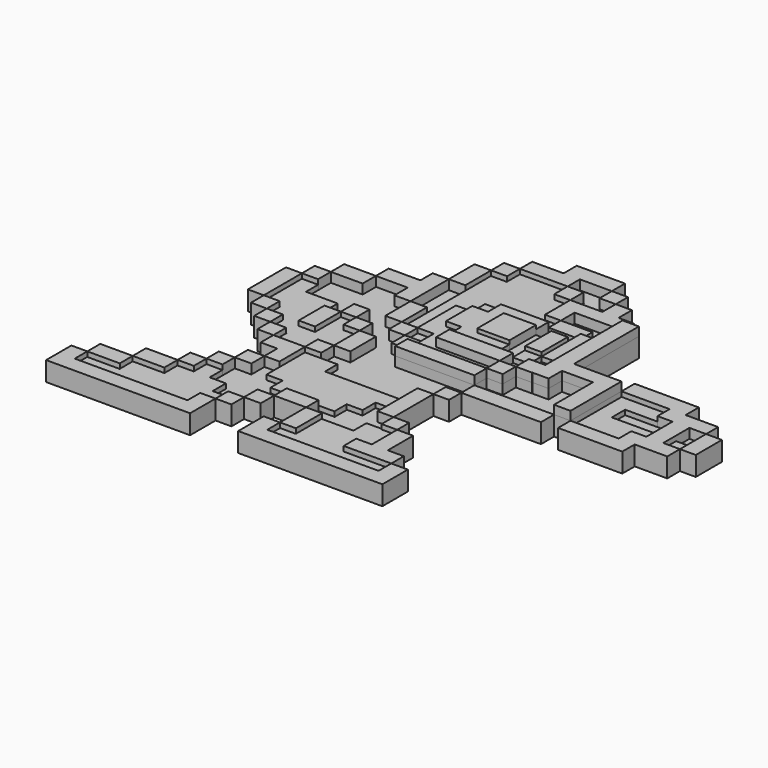
from build123d import *

# Parameters (mm, degrees)
F0_W      = 20.900006406
F0_H      = 4.2923069559
F1_DEPTH  = 5.08
F0_W_2    = 8.3327814937
F0_H_2    = 4.3587516993
F0_W_3    = 4.2140427977
F0_H_3    = 4.1645690799
F0_W_4    = 8.3529315889
F0_H_4    = 4.0272120386
F0_W_5    = 4.4268853962
F0_H_5    = 8.5811112076
F0_W_6    = 4.1924705729
F0_H_6    = 8.3178449422
F0_W_7    = 4.0919128805
F0_H_7    = 4.1151866317
F0_W_8    = 4.2062476277
F0_W_9    = 4.3465588242
F0_H_8    = 8.4780417383
F0_W_10   = 4.3311528862
F0_H_9    = 12.7643435262
F0_W_11   = 4.172725603
F0_H_10   = 4.2218714952
F0_W_12   = 8.2945758477
F0_W_13   = 4.2809359729
F0_H_11   = 4.1758846492
F0_W_14   = 4.1783265769
F0_H_12   = 4.1205789894
F0_W_15   = 4.2810421437
F0_H_13   = 8.4166134475
F0_W_16   = 20.8005825989
F0_H_14   = 4.0355686215
F0_W_17   = 4.3553877622
F0_H_15   = 4.1632745415
F0_W_18   = 4.2075817473
F0_H_16   = 4.3926127255
F0_W_19   = 4.2893327773
F0_H_17   = 8.4763255436
F0_W_20   = 8.4553544875
F0_H_18   = 8.6766984314
F0_W_21   = 4.2940806597
F0_H_19   = 8.5881613195
F0_W_22   = 4.2437100783
F0_W_23   = 4.169259686
F0_H_20   = 4.510294646
F0_W_24   = 16.7077530641
F0_H_21   = 4.3921931647
F0_W_25   = 4.1942112148
F0_H_22   = 4.1577133816
F0_H_23   = 4.2809359729
F0_W_26   = 4.2437110096
F0_H_24   = 4.0203556418
F0_W_27   = 4.1589438915
F0_H_25   = 4.0269978344
F0_W_28   = 4.1692606173
F0_H_26   = 13.0671747029
F0_H_27   = 3.9459075779
F0_W_29   = 4.1936609196
F0_H_28   = 8.5536167026
F0_W_30   = 4.3142456561
F0_H_29   = 8.2726264372
F0_W_31   = 4.1898488998
F0_H_30   = 12.5111724483
F0_W_32   = 8.3659859374
F0_H_31   = 4.1002966464
F0_W_33   = 8.5217542946
F0_H_32   = 4.2498111725
F0_W_34   = 8.3016045392
F0_H_33   = 4.3591111898
F0_W_35   = 4.243709147
F0_H_34   = 4.1643381119
F0_W_36   = 4.2115878314
F0_H_35   = 4.2378730141
F0_W_37   = 4.1781994514
F0_H_36   = 4.378170881
F0_W_38   = 4.2075226083
F0_H_37   = 4.2825799319
F0_W_39   = 4.2488034815
F0_H_38   = 4.2021656409
F0_H_39   = 4.1581873083
F0_W_40   = 4.013851285
F0_H_40   = 4.3770181946
F0_W_41   = 4.1692592204
F0_H_41   = 4.2064852314
F0_W_42   = 4.2149834335
F0_H_42   = 4.2121158913
F0_W_43   = 4.3777292594
F0_H_43   = 4.4039189816
F0_W_44   = 4.1690245271
F0_H_44   = 4.149697721
F0_W_45   = 4.2064860463
F0_H_45   = 4.0203593671
F0_W_46   = 4.2313970625
F0_H_46   = 4.1999788955
F2_W      = 8.3400309086
F2_H      = 4.2342506349
F3_DEPTH  = 3.81
F2_W_2    = 4.1319718584
F2_H_2    = 3.9547178894
F2_W_3    = 4.1876286268
F2_W_4    = 4.2704697698
F2_H_3    = 8.4137432277
F2_W_5    = 4.1673658416
F2_H_4    = 4.3562869541
F2_W_6    = 4.3553896248
F2_H_5    = 4.181571072
F2_W_7    = 4.1320323944
F2_H_6    = 4.1878721677
F2_W_8    = 8.2915648818
F2_H_7    = 4.2985947803
F2_W_9    = 4.0063336492
F2_H_8    = 4.2055423837
F2_W_10   = 4.2401889805
F2_H_9    = 4.2886454612
F2_W_11   = 8.5089355707
F2_H_10   = 4.0609911084
F2_W_12   = 4.1747577488
F2_H_11   = 4.1917189956
F2_W_13   = 4.0501449257
F2_H_12   = 4.0871463716
F2_W_14   = 4.1151610203
F2_H_13   = 4.2416639626
F5_W      = 4.1979551315
F5_H      = 12.864341028
F7_DEPTH  = 6.35
F5_W_2    = 4.3823933229
F5_H_2    = 4.0067601949
F4_W      = 4.1945781559
F4_H      = 4.0380638093
F8_DEPTH  = 5.08
F4_W_2    = 4.2571825907
F4_H_2    = 4.3197884224
F4_W_3    = 4.1380170733
F4_H_3    = 12.6139037311
F4_W_4    = 4.1493853787
F4_H_4    = 4.2100641876
F6_W      = 12.3646110296
F6_H      = 4.4449996203
F9_DEPTH  = 2.54
F6_W_2    = 4.3510869145
F6_H_2    = 4.3823942542
F6_W_3    = 8.2640685141
F6_H_3    = 4.4298376888
F6_W_4    = 4.3561588973
F6_H_4    = 12.6044657081
F6_W_5    = 4.2518645059
F6_H_5    = 4.2884852737
F6_W_6    = 4.257183522
F6_H_6    = 8.1847608089
F6_W_7    = 4.0341764688
F6_H_7    = 4.2997151613
F6_W_8    = 4.3434323743
F6_H_8    = 4.2064841837
F6_W_9    = 4.2166868225
F6_H_9    = 4.065064888
F6_W_10   = 8.3789918572
F6_H_10   = 4.3366439641
F6_W_11   = 4.2404327542
F6_H_11   = 4.3948800303
F6_W_12   = 4.237576155
F6_H_12   = 4.1945776902
F6_W_13   = 4.1850935668
F6_H_13   = 4.1006691754
F10_DEPTH = 2.286


with BuildPart() as f1:
    # F0 (on Top) → F1 (new body)
    with BuildSketch(Plane.XY):
        with Locations((25.3343083896, -5.2376810927)):
            Rectangle(F0_W, F0_H)
    extrude(amount=F1_DEPTH)


with BuildPart() as f1b:
    # F0 (on Top) → F1, piece 2 (new body)
    with BuildSketch(Plane.XY):
        with Locations((-35.3536754847, 20.0120871887)):
            Rectangle(F0_W_2, F0_H_2)
    extrude(amount=F1_DEPTH)


with BuildPart() as f1c:
    # F0 (on Top) → F1, piece 3 (new body)
    with BuildSketch(Plane.XY):
        with Locations((-20.7273317501, 24.2737475783)):
            Rectangle(F0_W_3, F0_H_3)
        with Locations((-20.7273317501, 20.0120871887)):
            Rectangle(F0_W_3, F0_H_2)
        with Locations((-27.0108189434, 24.2737475783)):
            Rectangle(F0_W_4, F0_H_3)
        with Locations((-20.7273317501, 28.3696381375)):
            Rectangle(F0_W_3, F0_H_4)
    extrude(amount=F1_DEPTH)


with BuildPart() as f1d:
    # F0 (on Top) → F1, piece 4 (new body)
    with BuildSketch(Plane.XY):
        with Locations((58.9073617011, 5.3579714149)):
            Rectangle(F0_W_5, F0_H_5)
        Polygon((56.9563768804, 13.6169707403), (52.7568049729, 13.6169707403), (52.7568049729, 9.6485270187), (56.693919003, 9.6485270187), (61.1208043993, 9.6485270187), (65.4968619347, 9.6485270187), (65.4968619347, 13.6169707403), align=None)
        Polygon((52.7568049729, 1.0674158111), (52.7568049729, -3.0915276147), (56.9563768804, -3.0915276147), (65.4968619347, -3.0915276147), (65.4968619347, 1.0674158111), (61.1208043993, 1.0674158111), (56.693919003, 1.0674158111), align=None)
        Polygon((40.1154644787, 17.9367605597), (40.1154644787, 13.6169707403), (52.7568049729, 13.6169707403), (56.9563768804, 13.6169707403), (56.9563768804, 17.9367605597), align=None)
        Polygon((52.7568049729, -3.0915276147), (40.1154644787, -3.0915276147), (40.1154644787, -7.1732555516), (56.9563768804, -7.1732555516), (56.9563768804, -3.0915276147), align=None)
    extrude(amount=F1_DEPTH)


with BuildPart() as f1e:
    # F0 (on Top) → F1, piece 5 (new body)
    with BuildSketch(Plane.XY):
        with Locations((16.980540473, -32.582837157)):
            Rectangle(F0_W_6, F0_H_6)
        with Locations((12.8383487463, -38.7993529439)):
            Rectangle(F0_W_7, F0_H_7)
        with Locations((21.1798995733, -38.7993529439)):
            Rectangle(F0_W_8, F0_H_7)
        with Locations((16.980540473, -38.7993529439)):
            Rectangle(F0_W_6, F0_H_7)
    extrude(amount=F1_DEPTH)


with BuildPart() as f1f:
    # F0 (on Top) → F1, piece 6 (new body)
    with BuildSketch(Plane.XY):
        with Locations((-16.4470309392, 34.622265026)):
            Rectangle(F0_W_9, F0_H_8)
    extrude(amount=F1_DEPTH)


with BuildPart() as f1g:
    # F0 (on Top) → F1, piece 7 (new body)
    with BuildSketch(Plane.XY):
        with Locations((37.9498880357, 3.2906441484)):
            Rectangle(F0_W_10, F0_H_9)
        Polygon((27.6618786156, 34.8935388029), (23.3794804662, 34.8935388029), (23.3794804662, 9.5600849018), (23.3794804662, 5.2879313007), (27.6618786156, 5.2879313007), (27.6618786156, 9.6728159115), (27.6618786156, 13.6169707403), align=None)
        Polygon((40.1154644787, 13.6169707403), (27.6618786156, 13.6169707403), (27.6618786156, 9.6728159115), (35.7843115926, 9.6728159115), (40.1154644787, 9.6728159115), align=None)
        Polygon((23.3794804662, 5.2879313007), (23.3794804662, 9.5600849018), (19.0918277949, 9.5600849018), (19.0918277949, 5.2266209386), (23.3794804662, 5.2266209386), align=None)
    extrude(amount=F1_DEPTH)


with BuildPart() as f1h:
    # F0 (on Top) → F1, piece 8 (new body)
    with BuildSketch(Plane.XY):
        with Locations((-12.1873887256, 40.9722216427)):
            Rectangle(F0_W_11, F0_H_10)
    extrude(amount=F1_DEPTH)


with BuildPart() as f1i:
    # F0 (on Top) → F1, piece 9 (new body)
    with BuildSketch(Plane.XY):
        with Locations((14.9445398711, 28.3696381375)):
            Rectangle(F0_W_12, F0_H_4)
    extrude(amount=F1_DEPTH)


with BuildPart() as f1j:
    # F0 (on Top) → F1, piece 10 (new body)
    with BuildSketch(Plane.XY):
        Polygon((23.2830233872, -49.2087155581), (23.2830233872, -45.0328309089), (-5.9227533638, -45.0328309089), (-10.2036893368, -45.0328309089), (-10.2036893368, -49.2087155581), align=None)
        Polygon((27.6282057166, -40.8569462597), (23.2830233872, -40.8569462597), (23.2830233872, -45.0328309089), (23.2830233872, -49.2087155581), (27.6282057166, -49.2087155581), align=None)
        with Locations((-8.0632213503, -42.9448885843)):
            Rectangle(F0_W_13, F0_H_11)
    extrude(amount=F1_DEPTH)


with BuildPart() as f1k:
    # F0 (on Top) → F1, piece 11 (new body)
    with BuildSketch(Plane.XY):
        Polygon((-26.8547292799, -49.2087155581), (-26.8547292799, -45.0328309089), (-56.4465634525, -45.0328309089), (-60.6248900294, -45.0328309089), (-60.6248900294, -49.2087155581), align=None)
        Polygon((-22.8354930878, -49.2087155581), (-22.8354930878, -40.8569462597), (-26.8547292799, -40.8569462597), (-26.8547292799, -45.0328309089), (-26.8547292799, -49.2087155581), align=None)
        with Locations((-58.535726741, -42.9725414142)):
            Rectangle(F0_W_14, F0_H_12)
    extrude(amount=F1_DEPTH)


with BuildPart() as f1l:
    # F0 (on Top) → F1, piece 12 (new body)
    with BuildSketch(Plane.XY):
        with Locations((-16.4861707017, -3.0442821444)):
            Rectangle(F0_W_15, F0_H_13)
    extrude(amount=F1_DEPTH)


with BuildPart() as f1m:
    # F0 (on Top) → F1, piece 13 (new body)
    with BuildSketch(Plane.XY):
        Polygon((2.4204105139, 47.1035130322), (-1.8594295252, 47.1035130322), (-10.1010259241, 47.1035130322), (-10.1010259241, 43.0831573904), (2.4204105139, 43.0831573904), align=None)
        Polygon((10.7972519472, 51.4216758311), (-1.8594295252, 51.4216758311), (-1.8594295252, 47.1035130322), (2.4204105139, 47.1035130322), (10.7972519472, 47.1035130322), align=None)
    extrude(amount=F1_DEPTH)


with BuildPart() as f1n:
    # F0 (on Top) → F1, piece 14 (new body)
    with BuildSketch(Plane.XY):
        with Locations((4.4840138871, -1.073743304)):
            Rectangle(F0_W_16, F0_H_14)
    extrude(amount=F1_DEPTH)


with BuildPart() as f1o:
    # F0 (on Top) → F1, piece 15 (new body)
    with BuildSketch(Plane.XY):
        Polygon((-22.875495255, -11.454754509), (-26.8176216632, -11.454754509), (-26.8176216632, -15.6180290505), (-26.8176216632, -19.8376961052), (-22.875495255, -19.8376961052), align=None)
        with Locations((-28.9953155443, -13.5363917798)):
            Rectangle(F0_W_17, F0_H_15)
    extrude(amount=F1_DEPTH)


with BuildPart() as f1p:
    # F0 (on Top) → F1, piece 16 (new body)
    with BuildSketch(Plane.XY):
        with Locations((4.5242013875, 40.8868510276)):
            Rectangle(F0_W_18, F0_H_16)
    extrude(amount=F1_DEPTH)


with BuildPart() as f1q:
    # F0 (on Top) → F1, piece 17 (new body)
    with BuildSketch(Plane.XY):
        with Locations((-29.0340129286, 1.0840491159)):
            Rectangle(F0_W_19, F0_H_17)
    extrude(amount=F1_DEPTH)


with BuildPart() as f1r:
    # F0 (on Top) → F1, piece 18 (new body)
    with BuildSketch(Plane.XY):
        with Locations((6.5655029612, 17.8970927373)):
            Rectangle(F0_W_20, F0_H_18)
    extrude(amount=F1_DEPTH)


with BuildPart() as f1s:
    # F0 (on Top) → F1, piece 19 (new body)
    with BuildSketch(Plane.XY):
        with Locations((17.0572241768, 17.8528241813)):
            Rectangle(F0_W_21, F0_H_19)
    extrude(amount=F1_DEPTH)


with BuildPart() as f1t:
    # F0 (on Top) → F1, piece 20 (new body)
    with BuildSketch(Plane.XY):
        Polygon((19.2846730351, 38.6905446649), (15.0409629568, 38.6905446649), (6.6279922612, 38.6905446649), (6.6279922612, 34.8935388029), (10.7972519472, 34.8935388029), (23.3794804662, 34.8935388029), (23.3794804662, 38.6905446649), align=None)
        with Locations((17.162817996, 40.8868510276)):
            Rectangle(F0_W_22, F0_H_16)
        with Locations((8.7126221042, 32.6383914798)):
            Rectangle(F0_W_23, F0_H_20)
    extrude(amount=F1_DEPTH)


with BuildPart() as f1u:
    # F0 (on Top) → F1, piece 21 (new body)
    with BuildSketch(Plane.XY):
        with Locations((6.5304286545, 7.422717521)):
            Rectangle(F0_W_24, F0_H_21)
    extrude(amount=F1_DEPTH)


with BuildPart() as f1v:
    # F0 (on Top) → F1, piece 22 (new body)
    with BuildSketch(Plane.XY):
        with Locations((-37.4850984663, -5.163781927)):
            Rectangle(F0_W_25, F0_H_22)
    extrude(amount=F1_DEPTH)


with BuildPart() as f1w:
    # F0 (on Top) → F1, piece 23 (new body)
    with BuildSketch(Plane.XY):
        with Locations((-28.9953155443, -21.9781640917)):
            Rectangle(F0_W_17, F0_H_23)
    extrude(amount=F1_DEPTH)


with BuildPart() as f1x:
    # F0 (on Top) → F1, piece 24 (new body)
    with BuildSketch(Plane.XY):
        with Locations((12.919107452, 45.0933352113)):
            Rectangle(F0_W_26, F0_H_24)
    extrude(amount=F1_DEPTH)


with BuildPart() as f1y:
    # F0 (on Top) → F1, piece 25 (new body)
    with BuildSketch(Plane.XY):
        with Locations((67.5763338804, 5.3579714149)):
            Rectangle(F0_W_27, F0_H_5)
    extrude(amount=F1_DEPTH)


with BuildPart() as f1z:
    # F0 (on Top) → F1, piece 26 (new body)
    with BuildSketch(Plane.XY):
        with Locations((12.8383487463, -9.3973334879)):
            Rectangle(F0_W_7, F0_H_25)
    extrude(amount=F1_DEPTH)


with BuildPart() as f1ba:
    # F0 (on Top) → F1, piece 27 (new body)
    with BuildSketch(Plane.XY):
        with Locations((8.7077619974, -17.9444197565)):
            Rectangle(F0_W_28, F0_H_26)
    extrude(amount=F1_DEPTH)


with BuildPart() as f1bb:
    # F0 (on Top) → F1, piece 28 (new body)
    with BuildSketch(Plane.XY):
        with Locations((12.8383487463, -26.4509608969)):
            Rectangle(F0_W_7, F0_H_27)
    extrude(amount=F1_DEPTH)


with BuildPart() as f1bc:
    # F0 (on Top) → F1, piece 29 (new body)
    with BuildSketch(Plane.XY):
        with Locations((-3.8259229041, -36.5801379085)):
            Rectangle(F0_W_29, F0_H_28)
    extrude(amount=F1_DEPTH)


with BuildPart() as f1bd:
    # F0 (on Top) → F1, piece 30 (new body)
    with BuildSketch(Plane.XY):
        with Locations((-16.4631875232, 13.6963981204)):
            Rectangle(F0_W_30, F0_H_29)
    extrude(amount=F1_DEPTH)


with BuildPart() as f1be:
    # F0 (on Top) → F1, piece 31 (new body)
    with BuildSketch(Plane.XY):
        with Locations((-45.8463877439, 7.3771462194)):
            Rectangle(F0_W_31, F0_H_30)
    extrude(amount=F1_DEPTH)


with BuildPart() as f1bf:
    # F0 (on Top) → F1, piece 32 (new body)
    with BuildSketch(Plane.XY):
        with Locations((-10.1057463326, -30.253181234)):
            Rectangle(F0_W_32, F0_H_31)
    extrude(amount=F1_DEPTH)


with BuildPart() as f1bg:
    # F0 (on Top) → F1, piece 33 (new body)
    with BuildSketch(Plane.XY):
        with Locations((-52.1856863052, -38.7873463333)):
            Rectangle(F0_W_33, F0_H_32)
    extrude(amount=F1_DEPTH)


with BuildPart() as f1bh:
    # F0 (on Top) → F1, piece 34 (new body)
    with BuildSketch(Plane.XY):
        with Locations((-43.7740068883, -34.4828851521)):
            Rectangle(F0_W_34, F0_H_33)
    extrude(amount=F1_DEPTH)


with BuildPart() as f1bi:
    # F0 (on Top) → F1, piece 35 (new body)
    with BuildSketch(Plane.XY):
        with Locations((-37.5013500452, -30.2211605012)):
            Rectangle(F0_W_35, F0_H_34)
    extrude(amount=F1_DEPTH)


with BuildPart() as f1bj:
    # F0 (on Top) → F1, piece 36 (new body)
    with BuildSketch(Plane.XY):
        with Locations((-12.2002707794, 7.4411483947)):
            Rectangle(F0_W_36, F0_H_35)
    extrude(amount=F1_DEPTH)


with BuildPart() as f1bk:
    # F0 (on Top) → F1, piece 37 (new body)
    with BuildSketch(Plane.XY):
        with Locations((-8.005377138, 3.1331264472)):
            Rectangle(F0_W_37, F0_H_36)
    extrude(amount=F1_DEPTH)


with BuildPart() as f1bl:
    # F0 (on Top) → F1, piece 38 (new body)
    with BuildSketch(Plane.XY):
        with Locations((16.9880664907, 3.0853309727)):
            Rectangle(F0_W_38, F0_H_37)
    extrude(amount=F1_DEPTH)


with BuildPart() as f1bm:
    # F0 (on Top) → F1, piece 39 (new body)
    with BuildSketch(Plane.XY):
        with Locations((-20.7510935143, -9.3536716886)):
            Rectangle(F0_W_39, F0_H_38)
    extrude(amount=F1_DEPTH)


with BuildPart() as f1bn:
    # F0 (on Top) → F1, piece 40 (new body)
    with BuildSketch(Plane.XY):
        with Locations((-20.7510935143, 3.2431182335)):
            Rectangle(F0_W_39, F0_H_39)
    extrude(amount=F1_DEPTH)


with BuildPart() as f1bo:
    # F0 (on Top) → F1, piece 41 (new body)
    with BuildSketch(Plane.XY):
        with Locations((-24.8824208975, 7.510720985)):
            Rectangle(F0_W_40, F0_H_40)
    extrude(amount=F1_DEPTH)


with BuildPart() as f1bp:
    # F0 (on Top) → F1, piece 42 (new body)
    with BuildSketch(Plane.XY):
        with Locations((-41.6668336838, -0.9816826205)):
            Rectangle(F0_W_41, F0_H_41)
    extrude(amount=F1_DEPTH)


with BuildPart() as f1bq:
    # F0 (on Top) → F1, piece 43 (new body)
    with BuildSketch(Plane.XY):
        with Locations((-33.2805011421, -9.3486965634)):
            Rectangle(F0_W_42, F0_H_42)
    extrude(amount=F1_DEPTH)


with BuildPart() as f1br:
    # F0 (on Top) → F1, piece 44 (new body)
    with BuildSketch(Plane.XY):
        with Locations((-16.477603931, -34.505289048)):
            Rectangle(F0_W_43, F0_H_43)
    extrude(amount=F1_DEPTH)


with BuildPart() as f1bs:
    # F0 (on Top) → F1, piece 45 (new body)
    with BuildSketch(Plane.XY):
        with Locations((-20.7509808242, -38.7820973992)):
            Rectangle(F0_W_44, F0_H_44)
    extrude(amount=F1_DEPTH)


with BuildPart() as f1bt:
    # F0 (on Top) → F1, piece 46 (new body)
    with BuildSketch(Plane.XY):
        with Locations((-33.2762524486, -26.1288117617)):
            Rectangle(F0_W_45, F0_H_45)
    extrude(amount=F1_DEPTH)


with BuildPart() as f1bu:
    # F0 (on Top) → F1, piece 47 (new body)
    with BuildSketch(Plane.XY):
        with Locations((-41.6357647628, 15.7327218913)):
            Rectangle(F0_W_46, F0_H_46)
    extrude(amount=F1_DEPTH)


with BuildPart() as f3:
    # F2 (on Top) → F3 (new body)
    with BuildSketch(Plane.XY):
        with Locations((14.9380061775, 24.3066158146)):
            Rectangle(F2_W, F2_H)
    extrude(amount=F3_DEPTH)


with BuildPart() as f3b:
    # F2 (on Top) → F3, piece 2 (new body)
    with BuildSketch(Plane.XY):
        with Locations((8.702004794, 28.4011000767)):
            Rectangle(F2_W_2, F2_H_2)
        Polygon((6.6360188648, 38.6424027383), (2.4498258717, 38.6424027383), (2.4498258717, 26.423741132), (6.6360188648, 26.423741132), (6.6360188648, 30.3784590214), align=None)
        with Locations((-8.0340281129, 24.3066158146)):
            Rectangle(F2_W_3, F2_H)
        Polygon((-10.1278424263, 26.423741132), (-10.1278424263, 38.7833751738), (-14.2787331715, 38.7833751738), (-14.2787331715, 9.63757094), (-10.1278424263, 9.63757094), (-10.1278424263, 22.1894904971), align=None)
        Polygon((2.4498258717, 43.0853888392), (-10.1278424263, 43.0853888392), (-10.1278424263, 38.7833751738), (-10.1278424263, 26.423741132), (-5.9402137995, 26.423741132), (2.4498258717, 26.423741132), (2.4498258717, 38.6424027383), align=None)
    extrude(amount=F3_DEPTH)


with BuildPart() as f3c:
    # F2 (on Top) → F3, piece 3 (new body)
    with BuildSketch(Plane.XY):
        with Locations((21.2432565168, 30.6306127459)):
            Rectangle(F2_W_4, F2_H_3)
    extrude(amount=F3_DEPTH)


with BuildPart() as f3d:
    # F2 (on Top) → F3, piece 4 (new body)
    with BuildSketch(Plane.XY):
        with Locations((-8.0441595055, 7.4594274629)):
            Rectangle(F2_W_5, F2_H_4)
    extrude(amount=F3_DEPTH)


with BuildPart() as f3e:
    # F2 (on Top) → F3, piece 5 (new body)
    with BuildSketch(Plane.XY):
        with Locations((63.3280035108, 3.1589308055)):
            Rectangle(F2_W_6, F2_H_5)
    extrude(amount=F3_DEPTH)


with BuildPart() as f3f:
    # F2 (on Top) → F3, piece 6 (new body)
    with BuildSketch(Plane.XY):
        Polygon((44.2703142762, 9.63757094), (52.7972429991, 9.63757094), (52.7972429991, 13.5930720717), (40.1624776423, 13.5930720717), (40.1624776423, 9.63757094), align=None)
        with Locations((54.8097603023, 3.1557802577)):
            Rectangle(F2_W_7, F2_H_6)
        Polygon((44.2703142762, 5.2497163415), (44.2703142762, 9.63757094), (40.1624776423, 9.63757094), (40.1624776423, -3.1079826877), (44.2703142762, -3.1079826877), align=None)
        Polygon((52.7437441051, 5.2497163415), (44.2703142762, 5.2497163415), (44.2703142762, -3.1079826877), (52.7437441051, -3.1079826877), (52.7437441051, 1.0618441738), align=None)
    extrude(amount=F3_DEPTH)


with BuildPart() as f3g:
    # F2 (on Top) → F3, piece 7 (new body)
    with BuildSketch(Plane.XY):
        Polygon((-39.4969917834, 13.6697227135), (-43.7828339636, 13.6697227135), (-43.7828339636, 1.0930666467), (-39.4969917834, 1.0930666467), (-39.4969917834, 9.63757094), align=None)
        with Locations((-26.9966647029, -9.3284198083)):
            Rectangle(F2_W_8, F2_H_7)
        with Locations((-24.8978603631, 3.2368056709)):
            Rectangle(F2_W_9, F2_H_8)
        Polygon((-31.165683642, 9.63757094), (-39.4969917834, 9.63757094), (-39.4969917834, 1.0930666467), (-39.4969917834, -3.1079826877), (-35.3313377127, -3.1079826877), (-31.165683642, -3.1079826877), align=None)
        Polygon((-26.9010271877, 1.134034479), (-26.9010271877, -3.1079826877), (-18.745072186, -3.1079826877), (-18.745072186, 1.134034479), (-22.8946935385, 1.134034479), align=None)
        Polygon((-26.9010271877, -3.1079826877), (-31.165683642, -3.1079826877), (-35.3313377127, -3.1079826877), (-35.3313377127, -7.1791224182), (-31.1424471438, -7.1791224182), (-22.850882262, -7.1791224182), (-18.745072186, -7.1791224182), (-18.745072186, -3.1079826877), align=None)
    extrude(amount=F3_DEPTH)


with BuildPart() as f3h:
    # F2 (on Top) → F3, piece 8 (new body)
    with BuildSketch(Plane.XY):
        with Locations((4.4915605104, -17.7095355466)):
            Rectangle(F2_W_10, F2_H_9)
        Polygon((-14.342693612, -11.4777171984), (-22.850882262, -11.4777171984), (-22.850882262, -24.1237767041), (-18.596787937, -24.1237767041), (-14.342693612, -24.1237767041), (-14.342693612, -15.565212816), align=None)
        Polygon((-14.342693612, -24.1237767041), (-18.596787937, -24.1237767041), (-18.596787937, -28.1643494964), (-1.7996440874, -28.1643494964), (-1.7996440874, -24.1237767041), align=None)
        Polygon((2.3714660201, -15.565212816), (-14.342693612, -15.565212816), (-14.342693612, -24.1237767041), (-1.7996440874, -24.1237767041), (2.3714660201, -24.1237767041), (2.3714660201, -19.8538582772), align=None)
    extrude(amount=F3_DEPTH)


with BuildPart() as f3i:
    # F2 (on Top) → F3, piece 9 (new body)
    with BuildSketch(Plane.XY):
        with Locations((-52.179351449, -42.9819002748)):
            Rectangle(F2_W_11, F2_H_10)
        with Locations((-33.2691874355, -30.2602089942)):
            Rectangle(F2_W_12, F2_H_11)
        with Locations((-24.8759547248, -38.7642551214)):
            Rectangle(F2_W_13, F2_H_12)
        Polygon((-47.9248836637, -45.012395829), (-39.6116375923, -45.012395829), (-39.6116375923, -36.6689488292), (-47.9248836637, -36.6689488292), (-47.9248836637, -40.9514047205), align=None)
        Polygon((-39.6116375923, -45.012395829), (-26.9010271877, -45.012395829), (-26.9010271877, -40.8078283072), (-26.9010271877, -36.7206819355), (-26.9010271877, -32.3560684919), (-31.1818085611, -32.3560684919), (-35.3565663099, -32.3560684919), (-39.6116375923, -32.3560684919), (-39.6116375923, -36.6689488292), align=None)
    extrude(amount=F3_DEPTH)


with BuildPart() as f3j:
    # F2 (on Top) → F3, piece 10 (new body)
    with BuildSketch(Plane.XY):
        Polygon((-5.8447779156, -45.012395829), (23.3294479549, -45.012395829), (23.3294479549, -40.9114509821), (10.719737038, -40.9114509821), (-1.7996440874, -40.9114509821), (-5.8447779156, -40.9114509821), align=None)
        with Locations((8.6621565279, -30.2851814777)):
            Rectangle(F2_W_14, F2_H_13)
        Polygon((10.719737038, -32.406013459), (10.719737038, -36.7604084313), (14.9101428688, -36.7604084313), (14.9101428688, -28.1643494964), (10.719737038, -28.1643494964), align=None)
        Polygon((-1.7996440874, -40.9114509821), (10.719737038, -40.9114509821), (10.719737038, -36.7604084313), (10.719737038, -32.406013459), (6.6045760177, -32.406013459), (-1.7996440874, -32.406013459), align=None)
    extrude(amount=F3_DEPTH)


with BuildPart() as f7:
    # F5 (on Top) → F7 (new body)
    with BuildSketch(Plane.XY):
        with Locations((21.291481331, 20.0012358837)):
            Rectangle(F5_W, F5_H)
    extrude(amount=F7_DEPTH)


with BuildPart() as f7b:
    # F5 (on Top) → F7, piece 2 (new body)
    with BuildSketch(Plane.XY):
        with Locations((17.0013071038, 11.5656852722)):
            Rectangle(F5_W_2, F5_H_2)
    extrude(amount=F7_DEPTH)


with BuildPart() as f7c:
    # F5 (on Top) → F7, piece 3 (new body)
    with BuildSketch(Plane.XY):
        Polygon((-1.8519646255, 9.6112350002), (10.7295624912, 9.6112350002), (10.7295624912, 13.5690653697), (2.3535776418, 13.5690653697), (-1.8519646255, 13.5690653697), align=None)
        Polygon((-5.9011476114, 13.5690653697), (-1.8519646255, 13.5690653697), (2.3535776418, 13.5690653697), (2.3535776418, 22.2123991698), (-1.7737849848, 22.2123991698), (-5.9011476114, 22.2123991698), align=None)
        Polygon((-1.7737849848, 22.2123991698), (2.3535776418, 22.2123991698), (10.7629969716, 22.2123991698), (10.7629969716, 26.4541320503), (-1.7737849848, 26.4541320503), align=None)
    extrude(amount=F7_DEPTH)


with BuildPart() as f8:
    # F4 (on Top) → F8 (new body)
    with BuildSketch(Plane.XY):
        with Locations((21.2751952931, 11.5673085675)):
            Rectangle(F4_W, F4_H)
    extrude(amount=F8_DEPTH)


with BuildPart() as f8b:
    # F4 (on Top) → F8, piece 2 (new body)
    with BuildSketch(Plane.XY):
        with Locations((17.0493149199, 7.3883824516)):
            Rectangle(F4_W_2, F4_H_2)
    extrude(amount=F8_DEPTH)


with BuildPart() as f8c:
    # F4 (on Top) → F8, piece 3 (new body)
    with BuildSketch(Plane.XY):
        with Locations((12.8517150879, 15.8552285284)):
            Rectangle(F4_W_3, F4_H_3)
    extrude(amount=F8_DEPTH)


with BuildPart() as f8d:
    # F4 (on Top) → F8, piece 4 (new body)
    with BuildSketch(Plane.XY):
        with Locations((-3.828568093, 24.2926022038)):
            Rectangle(F4_W_4, F4_H_4)
    extrude(amount=F8_DEPTH)


with BuildPart() as f8e:
    # F4 (on Top) → F8, piece 5 (new body)
    with BuildSketch(Plane.XY):
        Polygon((14.9207236245, 0.9232975426), (14.9207236245, 5.2284882404), (-1.8456779653, 5.2284882404), (-5.9032607824, 5.2284882404), (-5.9032607824, 0.9232975426), align=None)
        Polygon((-10.1551217958, 9.5482766628), (-5.9032607824, 9.5482766628), (-5.9032607824, 13.6188939214), (-5.9032607824, 22.18757011), (-10.1551217958, 22.18757011), align=None)
        Polygon((-5.9032607824, 5.2284882404), (-1.8456779653, 5.2284882404), (-1.8456779653, 13.6188939214), (-5.9032607824, 13.6188939214), (-5.9032607824, 9.5482766628), align=None)
    extrude(amount=F8_DEPTH)


with BuildPart() as f9:
    # F6 (on Top) → F9 (new body)
    with BuildSketch(Plane.XY):
        with Locations((50.4542924464, 7.4593890458)):
            Rectangle(F6_W, F6_H)
    extrude(amount=F9_DEPTH)


with BuildPart() as f9b:
    # F6 (on Top) → F9, piece 2 (new body)
    with BuildSketch(Plane.XY):
        with Locations((63.2884465158, 7.4593890458)):
            Rectangle(F6_W_2, F6_H_2)
    extrude(amount=F9_DEPTH)


with BuildPart() as f9c:
    # F6 (on Top) → F9, piece 3 (new body)
    with BuildSketch(Plane.XY):
        with Locations((14.9457044899, 32.6493280008)):
            Rectangle(F6_W_3, F6_H_3)
    extrude(amount=F9_DEPTH)


with BuildPart() as f9d:
    # F6 (on Top) → F9, piece 4 (new body)
    with BuildSketch(Plane.XY):
        with Locations((-16.4620103315, 24.1321763024)):
            Rectangle(F6_W_4, F6_H_4)
    extrude(amount=F9_DEPTH)


with BuildPart() as f9e:
    # F6 (on Top) → F9, piece 5 (new body)
    with BuildSketch(Plane.XY):
        Polygon((-5.9633236378, -28.1020160764), (-5.9633236378, -32.2965942323), (6.6204089671, -32.2965942323), (6.6204089671, -28.1020160764), (-1.7374438467, -28.1020160764), align=None)
        with Locations((4.4944767142, -21.9876738265)):
            Rectangle(F6_W_5, F6_H_5)
        Polygon((-1.7374438467, -28.1020160764), (6.6204089671, -28.1020160764), (10.7263969257, -28.1020160764), (10.7263969257, -24.1319164634), (6.6204089671, -24.1319164634), (2.3685444612, -24.1319164634), (-1.7374438467, -24.1319164634), align=None)
    extrude(amount=F9_DEPTH)


with BuildPart() as f9f:
    # F6 (on Top) → F9, piece 6 (new body)
    with BuildSketch(Plane.XY):
        with Locations((-29.033806175, -28.2242968678)):
            Rectangle(F6_W_6, F6_H_6)
        with Locations((-24.8059816658, -21.9820588827)):
            Rectangle(F6_W_7, F6_H_7)
        Polygon((-26.905214414, -36.7616787553), (-18.6725724488, -36.7616787553), (-18.6725724488, -32.3640592396), (-18.6725724488, -28.157575056), (-18.6725724488, -24.1319164634), (-22.7888934314, -24.1319164634), (-26.8230699003, -24.1319164634), (-26.905214414, -24.1319164634), (-26.905214414, -32.3166772723), align=None)
        with Locations((-16.5008562617, -30.2608171478)):
            Rectangle(F6_W_8, F6_H_8)
    extrude(amount=F9_DEPTH)


with BuildPart() as f9g:
    # F6 (on Top) → F9, piece 7 (new body)
    with BuildSketch(Plane.XY):
        Polygon((27.6780091226, -3.0916440301), (35.7970334589, -3.0916440301), (35.7970334589, 9.6224565059), (27.6780091226, 9.6224565059), (27.6780091226, 5.2451635711), align=None)
        with Locations((16.9995906763, -1.0591115861)):
            Rectangle(F6_W_9, F6_H_9)
        Polygon((19.1079340875, -3.0916440301), (27.6780091226, -3.0916440301), (27.6780091226, 5.2451635711), (19.1079340875, 5.2451635711), (19.1079340875, 0.9734208579), align=None)
    extrude(amount=F9_DEPTH)


with BuildPart() as f9h:
    # F6 (on Top) → F9, piece 8 (new body)
    with BuildSketch(Plane.XY):
        with Locations((-26.97838936, 20.0209617615)):
            Rectangle(F6_W_10, F6_H_10)
        with Locations((-29.0254307911, 7.4426035862)):
            Rectangle(F6_W_11, F6_H_11)
        with Locations((-16.4243472973, -9.3814816792)):
            Rectangle(F6_W_12, F6_H_12)
        Polygon((-18.559016753, 5.2451635711), (-14.3291400746, 5.2451635711), (-14.3291400746, 9.6400436014), (-18.6725724488, 9.6400436014), (-22.7888934314, 9.6400436014), (-22.7888934314, 5.2451635711), align=None)
        Polygon((-14.3055592198, 0.9734208579), (-10.0521016866, 0.9734208579), (-10.0521016866, 5.2451635711), (-14.3291400746, 5.2451635711), (-18.559016753, 5.2451635711), (-18.559016753, 0.9734208579), align=None)
        Polygon((14.891247265, -7.2731114924), (14.891247265, -3.0916440301), (6.6204089671, -3.0916440301), (6.6204089671, -7.2731114924), (10.8055025339, -7.2731114924), align=None)
        with Locations((8.7129557505, -9.3234460801)):
            Rectangle(F6_W_13, F6_H_13)
        Polygon((-22.7888934314, 9.6400436014), (-18.6725724488, 9.6400436014), (-18.6725724488, 17.8526397794), (-22.7888934314, 17.8526397794), (-31.1678852886, 17.8526397794), (-39.5120941103, 17.8526397794), (-39.5120941103, 9.6400436014), (-31.1456471682, 9.6400436014), (-26.905214414, 9.6400436014), align=None)
        Polygon((-5.9551699087, -15.5292311683), (-5.9551699087, -3.0916440301), (-5.9551699087, 0.9734208579), (-10.0521016866, 0.9734208579), (-14.3055592198, 0.9734208579), (-14.3055592198, -7.284192834), (-14.3055592198, -11.4787705243), (-14.3055592198, -15.5292311683), align=None)
        Polygon((6.6204089671, -7.2731114924), (6.6204089671, -3.0916440301), (-5.9551699087, -3.0916440301), (-5.9551699087, -15.5292311683), (6.6204089671, -15.5292311683), (6.6204089671, -11.3737806678), align=None)
    extrude(amount=F9_DEPTH)


with BuildPart() as f9i:
    # F6 (on Top) → F9, piece 9 (new body)
    with BuildSketch(Plane.XY):
        Polygon((10.8136702329, 47.1403710544), (2.4187851232, 47.1403710544), (2.4187851232, 43.1336127222), (6.6204089671, 43.1336127222), (10.8136702329, 43.1336127222), align=None)
        Polygon((15.0651233271, 43.1336127222), (10.8136702329, 43.1336127222), (6.6204089671, 43.1336127222), (6.6204089671, 38.6886112392), (15.0651233271, 38.6886112392), align=None)
    extrude(amount=F9_DEPTH)


with BuildPart() as f10:
    # F10 (new): a face of the model
    f10_faces = [f1r.part.faces().sort_by_distance(p)[0] for p in [
        (6.5655029612, 17.8970927373, 5.08),
    ]]
    extrude(f10_faces, amount=F10_DEPTH)


with BuildPart() as f10b:
    # F10#2 (new): a face of the model
    f10_2_faces = [f1s.part.faces().sort_by_distance(p)[0] for p in [
        (17.0572241768, 17.8528241813, 5.08),
    ]]
    extrude(f10_2_faces, amount=F10_DEPTH)


with BuildPart() as f10c:
    # F10#3 (new): a face of the model
    f10_3_faces = [f1u.part.faces().sort_by_distance(p)[0] for p in [
        (6.5304286545, 7.422717521, 5.08),
    ]]
    extrude(f10_3_faces, amount=F10_DEPTH)


with BuildPart() as f10d:
    # F10#4 (new): a face of the model
    f10_4_faces = [f1g.part.faces().sort_by_distance(p)[0] for p in [
        (36.2184611717, 3.2906441484, 5.08),
    ]]
    extrude(f10_4_faces, amount=F10_DEPTH)


with BuildPart() as f10e:
    # F10#5 (new): a face of the model
    f10_5_faces = [f1n.part.faces().sort_by_distance(p)[0] for p in [
        (4.4840138871, -1.073743304, 5.08),
    ]]
    extrude(f10_5_faces, amount=F10_DEPTH)


with BuildPart() as f10f:
    # F10#6 (new): a face of the model
    f10_6_faces = [f1bl.part.faces().sort_by_distance(p)[0] for p in [
        (16.9880664907, 3.0853309727, 5.08),
    ]]
    extrude(f10_6_faces, amount=F10_DEPTH)


solid = Compound([f1.part, f1b.part, f1c.part, f1d.part, f1e.part, f1f.part, f1g.part, f1h.part, f1i.part, f1j.part, f1k.part, f1l.part, f1m.part, f1n.part, f1o.part, f1p.part, f1q.part, f1r.part, f1s.part, f1t.part, f1u.part, f1v.part, f1w.part, f1x.part, f1y.part, f1z.part, f1ba.part, f1bb.part, f1bc.part, f1bd.part, f1be.part, f1bf.part, f1bg.part, f1bh.part, f1bi.part, f1bj.part, f1bk.part, f1bl.part, f1bm.part, f1bn.part, f1bo.part, f1bp.part, f1bq.part, f1br.part, f1bs.part, f1bt.part, f1bu.part, f3.part, f3b.part, f3c.part, f3d.part, f3e.part, f3f.part, f3g.part, f3h.part, f3i.part, f3j.part, f7.part, f7b.part, f7c.part, f8.part, f8b.part, f8c.part, f8d.part, f8e.part, f9.part, f9b.part, f9c.part, f9d.part, f9e.part, f9f.part, f9g.part, f9h.part, f9i.part, f10.part, f10b.part, f10c.part, f10d.part, f10e.part, f10f.part])
